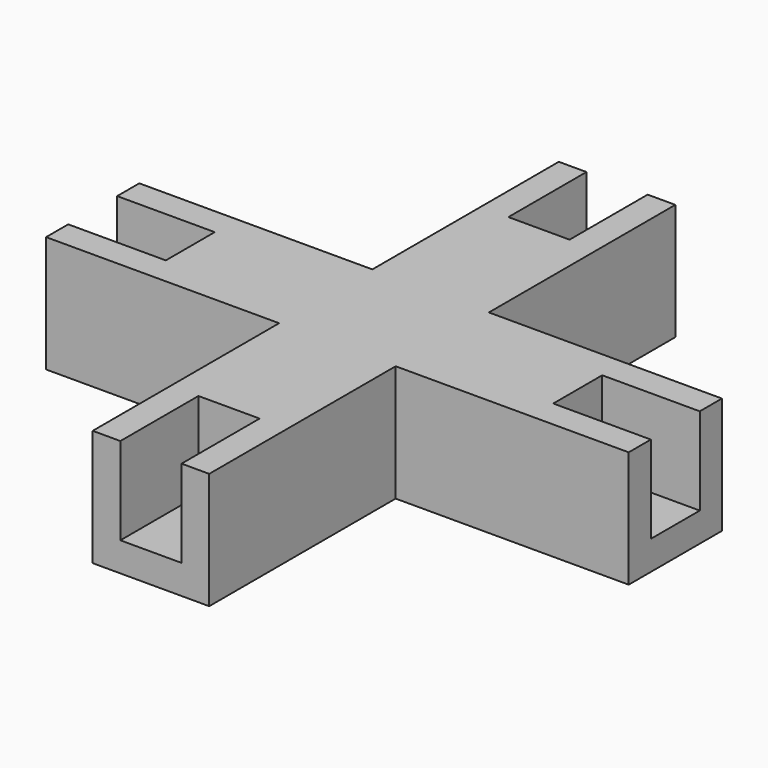
from build123d import *

# Parameters (mm, degrees)
PAD322_DEPTH            = 1
PAD323_DEPTH            = 3
PAD324_DEPTH            = 3
BODY054_PLACEMENT_ANGLE = 180


with BuildPart() as part:
    # Sketch479 → Pad322 (new body)
    with BuildSketch(Plane.XY.offset(-28)):
        Polygon((-2, 2), (-2, 10), (2, 10), (2, 2), (10, 2), (10, -2), (2, -2), (2, -10), (-2, -10), (-2, -2), (-10, -2), (-10, 2), align=None)
    extrude(amount=PAD322_DEPTH)

    # Sketch480 (on Face13 of Pad322) → Pad323 (join)
    with BuildSketch(Plane(origin=(0, 0, -28), x_dir=(1, 0, 0), z_dir=(0, 0, -1))):
        Polygon((-2, 10), (-2, 2), (-10, 2), (-10, 1.05), (-1.05, 1.05), (-1.05, 10), align=None)
        Polygon((-10, -2), (-2, -2), (-2, -10), (-1.05, -10), (-1.05, -1.05), (-10, -1.05), align=None)
        Polygon((2, -10), (2, -2), (10, -2), (10, -1.05), (1.05, -1.05), (1.05, -10), align=None)
        Polygon((10, 2), (2, 2), (2, 10), (1.05, 10), (1.05, 1.05), (10, 1.05), align=None)
    extrude(amount=PAD323_DEPTH)

    # Sketch481 (on Face3 of Pad323) → Pad324 (join)
    with BuildSketch(Plane(origin=(0, 0, -28), x_dir=(1, 0, 0), z_dir=(0, 0, -1))):
        Polygon((-6.65, 1.05), (-6.65, -1.05), (-1.05, -1.05), (-1.05, -6.65), (1.05, -6.65), (1.05, -1.05), (6.65, -1.05), (6.65, 1.05), (1.05, 1.05), (1.05, 6.65), (-1.05, 6.65), (-1.05, 1.05), align=None)
    extrude(amount=PAD324_DEPTH)


with BuildPart() as part_1:
    # Body054 placement: moved
    add(part.part.moved(Location((97.37, 9.65, -44))).rotate(Axis((97.37, 9.65, -44), (1, 0, 0)), BODY054_PLACEMENT_ANGLE))


solid = part_1.part
